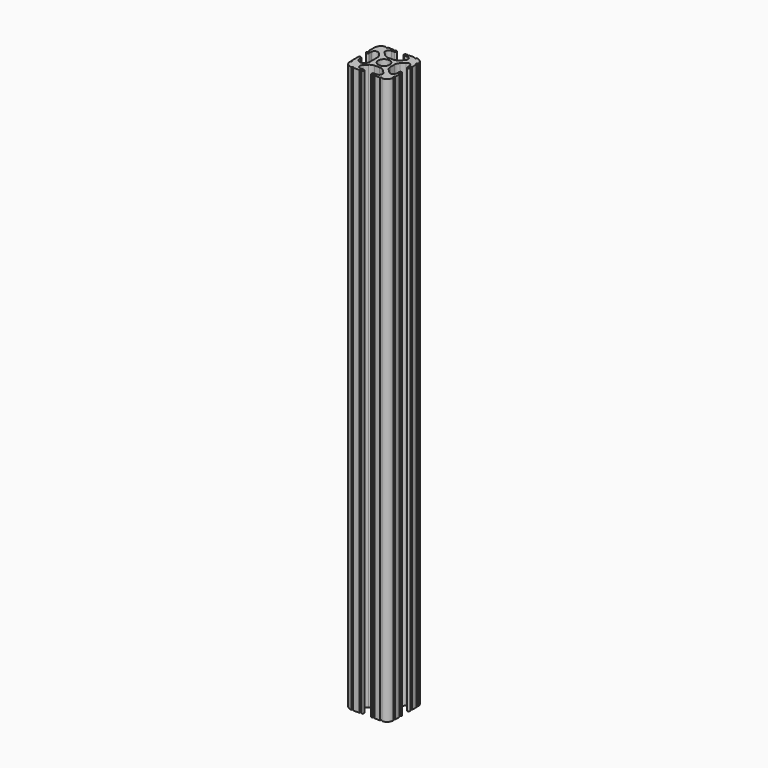
from build123d import *

# Parameters (mm, degrees)
F0_R     = 3.362501
F1_DEPTH = 165.1


with BuildPart() as f1:
    # F0 (on Top) → F1 (new body, symmetric)
    with BuildSketch(Plane.XY):
        with BuildLine():
            ThreePointArc((-7.291522, 15.377258), (-8.527575, 14.551354), (-9.985599, 14.261335))
            Line((-9.985599, 14.261335), (-12.900292, 14.261335))
            ThreePointArc((-12.900292, 14.261335), (-14.358316, 14.551354), (-15.594369, 15.377258))
            Line((-15.594369, 15.377258), (-17.43985, 17.222739))
            ThreePointArc((-17.43985, 17.222739), (-17.852803, 19.29879), (-16.092812, 20.474778))
            Line((-16.092812, 20.474778), (-14.358316, 20.474778))
            Line((-14.358316, 20.474778), (-14.325965, 20.474778))
            ThreePointArc((-14.325965, 20.474778), (-13.56835, 21.248399), (-14.325965, 22.02202))
            Line((-14.325965, 22.02202), (-14.358316, 22.02202))
            Line((-14.358316, 22.02202), (-14.996286, 22.02202))
            ThreePointArc((-14.996286, 22.02202), (-15.544549, 21.480792), (-16.092812, 22.02202))
            Line((-16.092812, 22.02202), (-19.230427, 22.02202))
            ThreePointArc((-19.230427, 22.02202), (-19.781686, 21.470761), (-20.332945, 22.02202))
            ThreePointArc((-20.332945, 22.02202), (-23.027022, 20.906097), (-24.142945, 18.21202))
            Line((-24.142945, 18.21202), (-24.142945, 17.126744))
            Line((-24.142945, 17.126744), (-24.142945, 13.971887))
            ThreePointArc((-24.142945, 13.971887), (-23.587106, 13.424695), (-24.142945, 12.877503))
            Line((-24.142945, 12.877503), (-24.142945, 12.23739))
            ThreePointArc((-24.142945, 12.23739), (-23.369324, 11.481574), (-22.595703, 12.23739))
            Line((-22.595703, 12.23739), (-22.595703, 13.971887))
            ThreePointArc((-22.595703, 13.971887), (-21.419715, 15.731877), (-19.343665, 15.318925))
            Line((-19.343665, 15.318925), (-18.091092, 14.066352))
            ThreePointArc((-18.091092, 14.066352), (-17.265188, 12.830299), (-16.975169, 11.372275))
            Line((-16.975169, 11.372275), (-16.975169, 5.601584))
            ThreePointArc((-16.975169, 5.601584), (-19.785436, 2.791317), (-22.595703, 5.601584))
            Line((-22.595703, 5.601584), (-22.595703, 6.406649))
            ThreePointArc((-22.595703, 6.406649), (-23.369324, 7.18027), (-24.142945, 6.406649))
            Line((-24.142945, 6.406649), (-24.142945, 5.771259))
            Line((-24.142945, 5.771259), (-24.142945, 1.526558))
            ThreePointArc((-24.142945, 1.526558), (-23.589161, 0.979289), (-24.142945, 0.43202))
            ThreePointArc((-24.142945, 0.43202), (-23.027022, -2.262057), (-20.332945, -3.37798))
            ThreePointArc((-20.332945, -3.37798), (-19.783762, -2.823095), (-19.234579, -3.37798))
            Line((-19.234579, -3.37798), (-15.451114, -3.37798))
            ThreePointArc((-15.451114, -3.37798), (-14.904715, -2.837846), (-14.358316, -3.37798))
            ThreePointArc((-14.358316, -3.37798), (-13.597129, -2.60328), (-14.358316, -1.82858))
            Line((-14.358316, -1.82858), (-16.090654, -1.82858))
            ThreePointArc((-16.090654, -1.82858), (-17.850645, -0.652592), (-17.437693, 1.423458))
            Line((-17.437693, 1.423458), (-15.594369, 3.266782))
            ThreePointArc((-15.594369, 3.266782), (-14.358316, 4.092686), (-12.900292, 4.382705))
            Line((-12.900292, 4.382705), (-9.985599, 4.382705))
            ThreePointArc((-9.985599, 4.382705), (-8.527575, 4.092686), (-7.291522, 3.266782))
            Line((-7.291522, 3.266782), (-5.448198, 1.423458))
            ThreePointArc((-5.448198, 1.423458), (-5.035246, -0.652592), (-6.795236, -1.82858))
            Line((-6.795236, -1.82858), (-8.527575, -1.82858))
            ThreePointArc((-8.527575, -1.82858), (-9.144781, -2.60328), (-8.527575, -3.37798))
            Line((-8.527575, -3.37798), (-7.895813, -3.37798))
            ThreePointArc((-7.895813, -3.37798), (-7.345525, -2.832718), (-6.795236, -3.37798))
            Line((-6.795236, -3.37798), (-3.641811, -3.37798))
            ThreePointArc((-3.641811, -3.37798), (-3.097378, -2.833547), (-2.552945, -3.37798))
            ThreePointArc((-2.552945, -3.37798), (0.141132, -2.262057), (1.257055, 0.43202))
            ThreePointArc((1.257055, 0.43202), (0.717674, 0.97812), (1.257055, 1.52422))
            Line((1.257055, 1.52422), (1.257055, 4.674311))
            ThreePointArc((1.257055, 4.674311), (0.713538, 5.22368), (1.257055, 5.773049))
            Line((1.257055, 5.773049), (1.257055, 6.406649))
            ThreePointArc((1.257055, 6.406649), (0.482355, 7.126711), (-0.292345, 6.406649))
            Line((-0.292345, 6.406649), (-0.292345, 4.674311))
            ThreePointArc((-0.292345, 4.674311), (-1.468333, 2.91432), (-3.544384, 3.327273))
            Line((-3.544384, 3.327273), (-5.387707, 5.170596))
            ThreePointArc((-5.387707, 5.170596), (-6.213612, 6.406649), (-6.503631, 7.864673))
            Line((-6.503631, 7.864673), (-6.503631, 10.779367))
            ThreePointArc((-6.503631, 10.779367), (-6.213612, 12.23739), (-5.387707, 13.473443))
            Line((-5.387707, 13.473443), (-3.544384, 15.316767))
            ThreePointArc((-3.544384, 15.316767), (-1.468333, 15.729719), (-0.292345, 13.969729))
            Line((-0.292345, 13.969729), (-0.292345, 12.23739))
            ThreePointArc((-0.292345, 12.23739), (0.482355, 11.501425), (1.257055, 12.23739))
            Line((1.257055, 12.23739), (1.257055, 12.877529))
            ThreePointArc((1.257055, 12.877529), (0.710955, 13.423629), (1.257055, 13.969729))
            Line((1.257055, 13.969729), (1.257055, 17.117185))
            ThreePointArc((1.257055, 17.117185), (0.705999, 17.664602), (1.257055, 18.21202))
            ThreePointArc((1.257055, 18.21202), (0.141132, 20.906097), (-2.552945, 22.02202))
            ThreePointArc((-2.552945, 22.02202), (-3.108248, 21.525639), (-3.663551, 22.02202))
            Line((-3.663551, 22.02202), (-6.793078, 22.02202))
            ThreePointArc((-6.793078, 22.02202), (-7.33931, 21.481453), (-7.885542, 22.02202))
            Line((-7.885542, 22.02202), (-8.527575, 22.02202))
            Line((-8.527575, 22.02202), (-8.599148, 22.02202))
            ThreePointArc((-8.599148, 22.02202), (-9.33781, 21.248399), (-8.599148, 20.474778))
            Line((-8.599148, 20.474778), (-8.527575, 20.474778))
            Line((-8.527575, 20.474778), (-6.793078, 20.474778))
            ThreePointArc((-6.793078, 20.474778), (-5.033088, 19.29879), (-5.44604, 17.222739))
            Line((-5.44604, 17.222739), (-7.291522, 15.377258))
        make_face()
        with Locations((-11.442945, 9.32202)):
            Circle(F0_R, mode=Mode.SUBTRACT)
        with BuildLine():
            ThreePointArc((-8.599148, 20.474778), (-8.563361, 20.473951), (-8.527575, 20.474778))
            Line((-8.527575, 20.474778), (-8.599148, 20.474778))
        make_face()
        with BuildLine():
            Line((-14.325965, 20.474778), (-14.358316, 20.474778))
            ThreePointArc((-14.358316, 20.474778), (-14.34214, 20.474609), (-14.325965, 20.474778))
        make_face()
        with BuildLine():
            ThreePointArc((-8.527575, 22.02202), (-8.563361, 22.022847), (-8.599148, 22.02202))
            Line((-8.599148, 22.02202), (-8.527575, 22.02202))
        make_face()
        with BuildLine():
            Line((-14.358316, 22.02202), (-14.325965, 22.02202))
            ThreePointArc((-14.325965, 22.02202), (-14.34214, 22.022189), (-14.358316, 22.02202))
        make_face()
    extrude(amount=F1_DEPTH, both=True)


solid = f1.part
